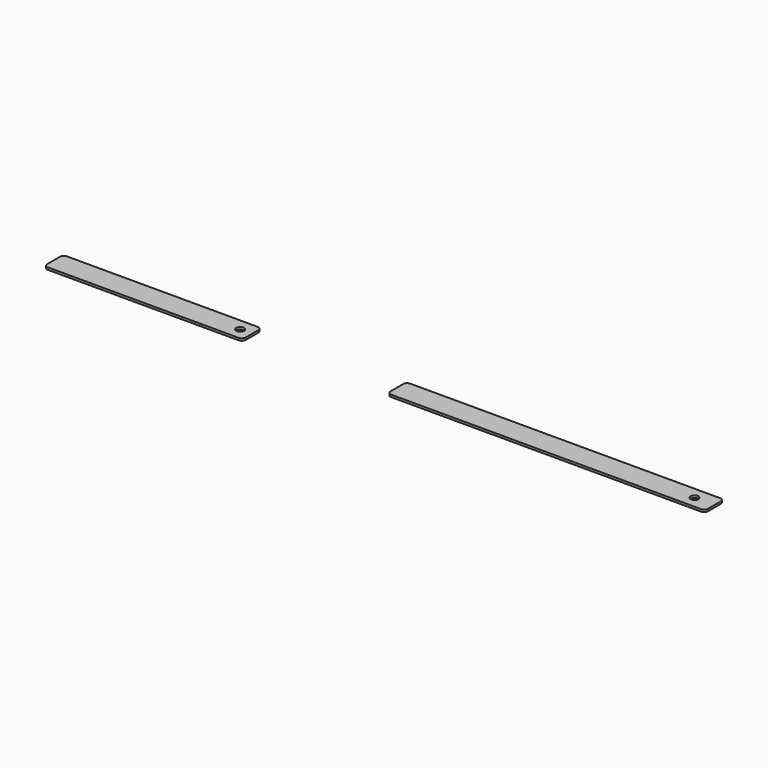
from build123d import *

# Parameters (mm, degrees)
F0_R     = 0.5
F1_DEPTH = 0.28
F2_R     = 0.5
F3_DEPTH = 0.28


with BuildPart() as f1:
    # F0 (on Top) → F1 (new body)
    with BuildSketch(Plane.XY):
        with BuildLine():
            ThreePointArc((2.381673, 13.143352), (2.52812, 12.789798), (2.881673, 12.643352))
            Line((2.881673, 12.643352), (41.881673, 12.643352))
            ThreePointArc((41.881673, 12.643352), (42.235227, 12.789798), (42.381673, 13.143352))
            Line((42.381673, 13.143352), (42.381673, 15.143352))
            ThreePointArc((42.381673, 15.143352), (42.235227, 15.496905), (41.881673, 15.643352))
            Line((41.881673, 15.643352), (2.881673, 15.643352))
            ThreePointArc((2.881673, 15.643352), (2.52812, 15.496905), (2.381673, 15.143352))
            Line((2.381673, 15.143352), (2.381673, 13.143352))
        make_face()
        with Locations((39.881673, 14.143352)):
            Circle(F0_R, mode=Mode.SUBTRACT)
    extrude(amount=F1_DEPTH)


with BuildPart() as f3:
    # F2 (on Top) → F3 (new body)
    with BuildSketch(Plane.XY):
        with BuildLine():
            ThreePointArc((-40.902233, 13.219685), (-40.755786, 12.866132), (-40.402233, 12.719685))
            Line((-40.402233, 12.719685), (-16.402233, 12.719685))
            ThreePointArc((-16.402233, 12.719685), (-16.04868, 12.866132), (-15.902233, 13.219685))
            Line((-15.902233, 13.219685), (-15.902233, 15.219685))
            ThreePointArc((-15.902233, 15.219685), (-16.04868, 15.573239), (-16.402233, 15.719685))
            Line((-16.402233, 15.719685), (-40.402233, 15.719685))
            ThreePointArc((-40.402233, 15.719685), (-40.755786, 15.573239), (-40.902233, 15.219685))
            Line((-40.902233, 15.219685), (-40.902233, 13.219685))
        make_face()
        with Locations((-17.402233, 14.219685)):
            Circle(F2_R, mode=Mode.SUBTRACT)
    extrude(amount=F3_DEPTH)


solid = Compound([f1.part, f3.part])
